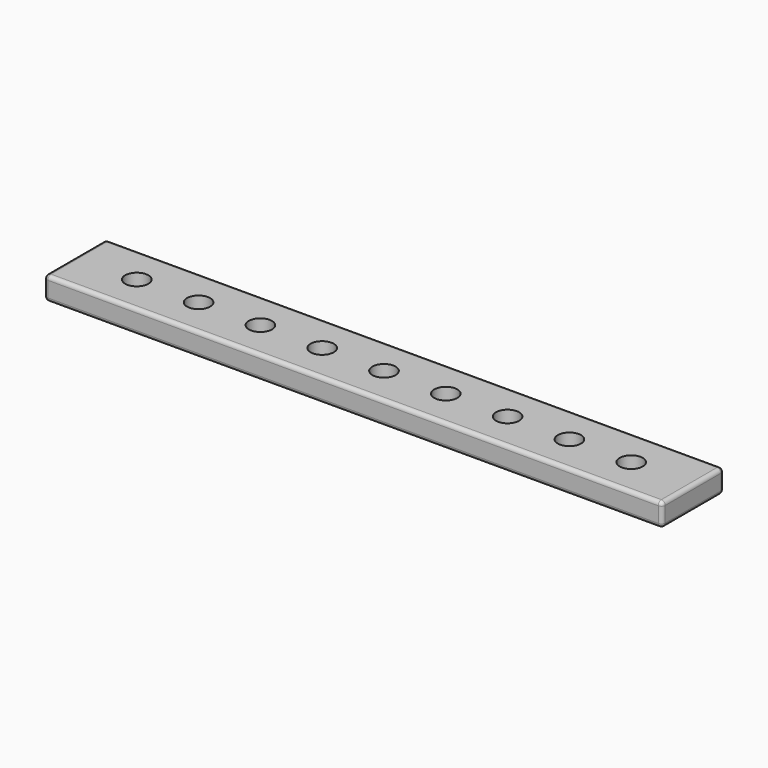
from build123d import *

# Parameters (mm, degrees)
SKETCH_W  = 80
SKETCH_H  = 10
SKETCH_R  = 1.5
PAD_DEPTH = 3
FILLET_R  = 0.5


with BuildPart() as part:
    # Sketch → Pad (new body)
    with BuildSketch(Plane.XY):
        Rectangle(SKETCH_W, SKETCH_H)
        with Locations((-32, 0)):
            Circle(SKETCH_R, mode=Mode.SUBTRACT)
        with Locations((-24, 0)):
            Circle(SKETCH_R, mode=Mode.SUBTRACT)
        with Locations((-8, 0)):
            Circle(SKETCH_R, mode=Mode.SUBTRACT)
        Circle(SKETCH_R, mode=Mode.SUBTRACT)
        with Locations((8, 0)):
            Circle(SKETCH_R, mode=Mode.SUBTRACT)
        with Locations((16, 0)):
            Circle(SKETCH_R, mode=Mode.SUBTRACT)
        with Locations((24, 0)):
            Circle(SKETCH_R, mode=Mode.SUBTRACT)
        with Locations((32, 0)):
            Circle(SKETCH_R, mode=Mode.SUBTRACT)
        with Locations((-16, 0)):
            Circle(SKETCH_R, mode=Mode.SUBTRACT)
    extrude(amount=PAD_DEPTH)

    # Fillet
    fillet_edges = [part.edges().sort_by_distance(p)[0] for p in [
        (-40, 5, 1.5),
        (-40, -5, 1.5),
        (-40, 0, 3),
        (-40, 0, 0),
        (0, 5, 3),
        (0, 5, 0),
        (0, -5, 3),
        (40, 0, 3),
        (40, 5, 1.5),
        (40, 0, 0),
        (40, -5, 1.5),
        (0, -5, 0),
    ]]
    fillet(fillet_edges, radius=FILLET_R)


solid = part.part
